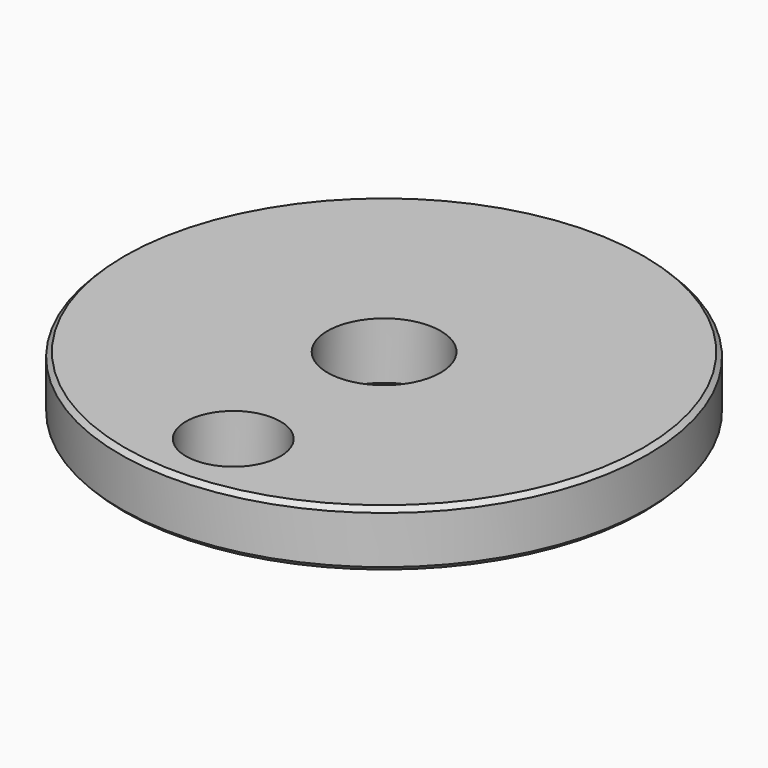
from build123d import *

# Parameters (mm, degrees)
F0_R     = 22.225
F0_R_2   = 3.9751
F0_R_3   = 4.7625
F1_DEPTH = 4.7752
F2_SIZE  = 0.381


with BuildPart() as f1:
    # F0 (on Top) → F1 (new body)
    with BuildSketch(Plane.XY):
        Circle(F0_R)
        with Locations((0, -15.875)):
            Circle(F0_R_2, mode=Mode.SUBTRACT)
        Circle(F0_R_3, mode=Mode.SUBTRACT)
    extrude(amount=F1_DEPTH)

    # F2
    f2_edges = [f1.edges().sort_by_distance(p)[0] for p in [
        (-22.225, 0, 4.7752),
        (-22.225, 0, 0),
    ]]
    chamfer(f2_edges, length=F2_SIZE)


solid = f1.part
